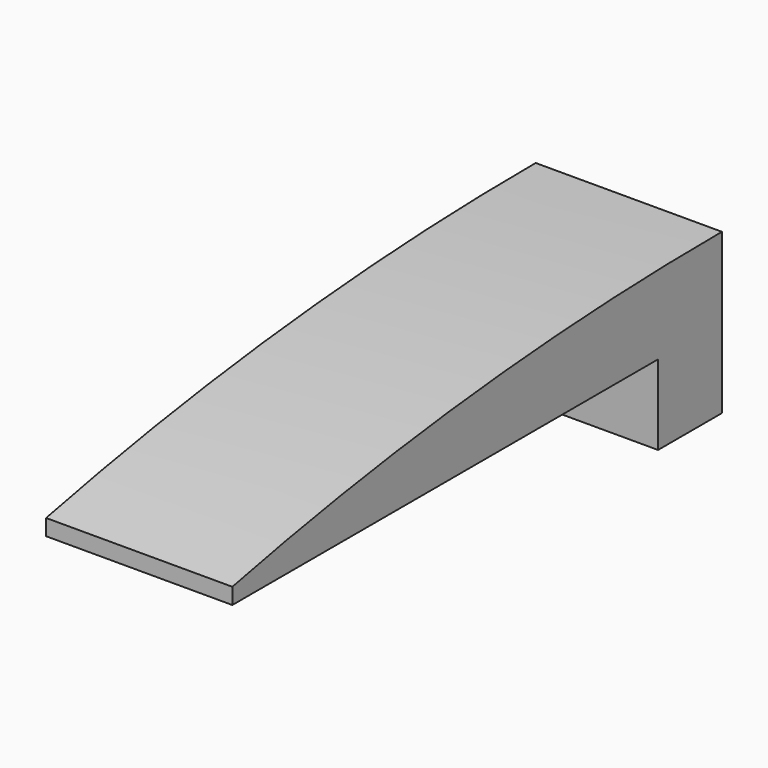
from build123d import *

# Parameters (mm, degrees)
F0_W     = 50.8
F0_H     = 7.62
F1_DEPTH = 17.78
F3_DEPTH = 25.4
F4_W     = 10.16
F4_H     = 3.81
F5_DEPTH = 38.1
F4_R     = 1.27
F6_DEPTH = 7.62


with BuildPart() as f1:
    # F0 (on Right) → F1 (new body)
    with BuildSketch(Plane.YZ):
        with Locations((-19.6553, 37.308002)):
            Rectangle(F0_W, F0_H)
        Polygon((13.3647, 41.118002), (5.7447, 41.118002), (5.7447, 33.498002), (5.7447, 25.878002), (13.3647, 25.878002), align=None)
    extrude(amount=F1_DEPTH)

    # F2 (on face) → F3 (cut)
    with BuildSketch(Plane.YZ.offset(17.78)):
        with BuildLine():
            ThreePointArc((-45.0553, 35.032712), (-16.00334, 39.592575), (13.3647, 41.118002))
            Line((13.3647, 41.118002), (-45.0553, 41.118002))
            Line((-45.0553, 41.118002), (-45.0553, 35.032712))
        make_face()
    extrude(amount=-F3_DEPTH, mode=Mode.SUBTRACT)

    # F4 (on face) → F5 (cut)
    with BuildSketch(Plane(origin=(0, 13.3647, 0), x_dir=(-1, 0, 0), z_dir=(0, 1, 0))):
        with Locations((-8.89, 35.403002)):
            Rectangle(F4_W, F4_H)
    extrude(amount=-F5_DEPTH, mode=Mode.SUBTRACT)

    # F4 (on face) → F6 (cut)
    with BuildSketch(Plane(origin=(0, 13.3647, 0), x_dir=(-1, 0, 0), z_dir=(0, 1, 0))):
        with Locations((-1.905, 37.308002)):
            Circle(F4_R)
        with Locations((-15.875, 37.308002)):
            Circle(F4_R)
    extrude(amount=-F6_DEPTH, mode=Mode.SUBTRACT)


solid = f1.part
